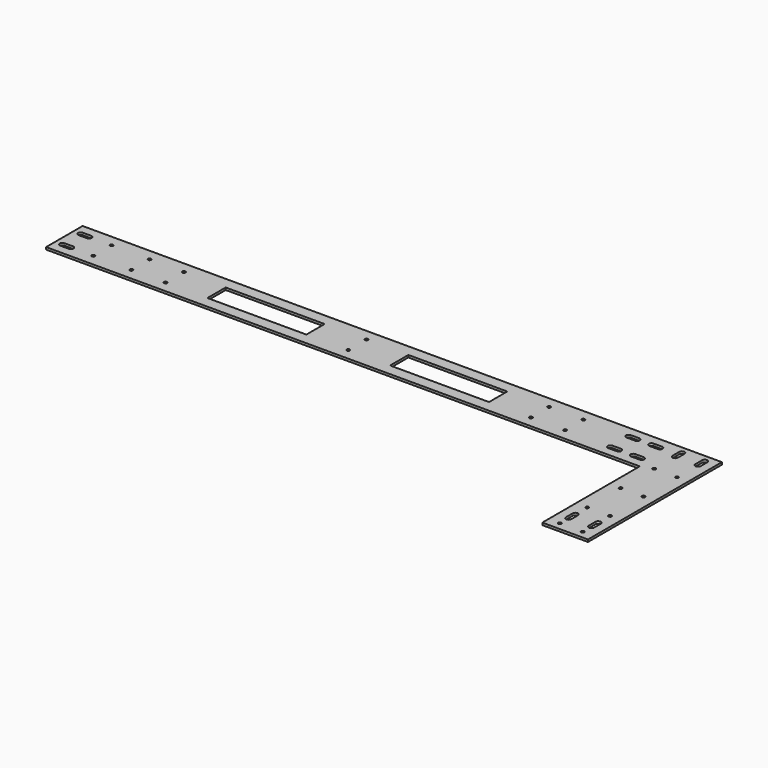
from build123d import *

# Parameters (mm, degrees)
F0_W     = 60
F0_H     = 160
F1_DEPTH = 3
F2_R     = 2.05
F3_DEPTH = 3
F4_W     = 720
F4_H     = 60
F4_R     = 2.05
F5_DEPTH = 3
F6_W     = 130
F6_H     = 30
F7_DEPTH = 25


with BuildPart() as f1:
    # F0 (on Top) → F1 (new body)
    with BuildSketch(Plane.XY):
        with Locations((30, -110)):
            Rectangle(F0_W, F0_H)
        Polygon((0, -30), (60, -30), (60, 30), (-60, 30), (-60, -30), align=None)
    extrude(amount=F1_DEPTH)

    # F2 (on face) → F3 (cut)
    with BuildSketch(Plane.XY.offset(3)):
        with BuildLine():
            Line((-50.5, 11.5), (-39.5, 11.5))
            ThreePointArc((-39.5, 11.5), (-36, 15), (-39.5, 18.5))
            Line((-39.5, 18.5), (-50.5, 18.5))
            ThreePointArc((-50.5, 18.5), (-54, 15), (-50.5, 11.5))
        make_face()
        with BuildLine():
            ThreePointArc((-20.5, 18.5), (-24, 15), (-20.5, 11.5))
            Line((-20.5, 11.5), (-9.5, 11.5))
            ThreePointArc((-9.5, 11.5), (-6, 15), (-9.5, 18.5))
            Line((-9.5, 18.5), (-20.5, 18.5))
        make_face()
        with BuildLine():
            ThreePointArc((-50.5, -11.5), (-54, -15), (-50.5, -18.5))
            Line((-50.5, -18.5), (-39.5, -18.5))
            ThreePointArc((-39.5, -18.5), (-36, -15), (-39.5, -11.5))
            Line((-39.5, -11.5), (-50.5, -11.5))
        make_face()
        with BuildLine():
            ThreePointArc((-20.5, -11.5), (-24, -15), (-20.5, -18.5))
            Line((-20.5, -18.5), (-9.5, -18.5))
            ThreePointArc((-9.5, -18.5), (-6, -15), (-9.5, -11.5))
            Line((-9.5, -11.5), (-20.5, -11.5))
        make_face()
        with BuildLine():
            ThreePointArc((41.5, -165.5), (45, -169), (48.5, -165.5))
            Line((48.5, -165.5), (48.5, -154.5))
            ThreePointArc((48.5, -154.5), (45, -151), (41.5, -154.5))
            Line((41.5, -154.5), (41.5, -165.5))
        make_face()
        with BuildLine():
            ThreePointArc((11.5, -165.5), (15, -169), (18.5, -165.5))
            Line((18.5, -165.5), (18.5, -154.5))
            ThreePointArc((18.5, -154.5), (15, -151), (11.5, -154.5))
            Line((11.5, -154.5), (11.5, -165.5))
        make_face()
        with Locations((15, -180)):
            Circle(F2_R)
        with Locations((45, -180)):
            Circle(F2_R)
        with Locations((15, -135)):
            Circle(F2_R)
        with Locations((45, -135)):
            Circle(F2_R)
        with BuildLine():
            ThreePointArc((41.5, 9.5), (45, 6), (48.5, 9.5))
            Line((48.5, 9.5), (48.5, 20.5))
            ThreePointArc((48.5, 20.5), (45, 24), (41.5, 20.5))
            Line((41.5, 20.5), (41.5, 9.5))
        make_face()
        with BuildLine():
            ThreePointArc((11.5, 9.5), (15, 6), (18.5, 9.5))
            Line((18.5, 9.5), (18.5, 20.5))
            ThreePointArc((18.5, 20.5), (15, 24), (11.5, 20.5))
            Line((11.5, 20.5), (11.5, 9.5))
        make_face()
        with Locations((15, -25)):
            Circle(F2_R)
        with Locations((45, -25)):
            Circle(F2_R)
        with Locations((45, -80)):
            Circle(F2_R)
        with Locations((15, -80)):
            Circle(F2_R)
    extrude(amount=-F3_DEPTH, mode=Mode.SUBTRACT)

    # F4 (on face) → F5 (join)
    with BuildSketch(Plane(origin=(0, 0, 0), x_dir=(1, 0, 0), z_dir=(0, 0, -1))):
        with Locations((-420, 0)):
            Rectangle(F4_W, F4_H)
        with BuildLine():
            ThreePointArc((-759.5, -11.5), (-756, -15), (-759.5, -18.5))
            Line((-759.5, -18.5), (-770.5, -18.5))
            ThreePointArc((-770.5, -18.5), (-774, -15), (-770.5, -11.5))
            Line((-770.5, -11.5), (-759.5, -11.5))
        make_face(mode=Mode.SUBTRACT)
        with Locations((-730, -15)):
            Circle(F4_R, mode=Mode.SUBTRACT)
        with Locations((-680, -15)):
            Circle(F4_R, mode=Mode.SUBTRACT)
        with Locations((-635, -15)):
            Circle(F4_R, mode=Mode.SUBTRACT)
        with Locations((-395, -15)):
            Circle(F4_R, mode=Mode.SUBTRACT)
        with Locations((-155, -15)):
            Circle(F4_R, mode=Mode.SUBTRACT)
        with Locations((-110, -15)):
            Circle(F4_R, mode=Mode.SUBTRACT)
        with BuildLine():
            ThreePointArc((-759.5, 18.5), (-756, 15), (-759.5, 11.5))
            Line((-759.5, 11.5), (-770.5, 11.5))
            ThreePointArc((-770.5, 11.5), (-774, 15), (-770.5, 18.5))
            Line((-770.5, 18.5), (-759.5, 18.5))
        make_face(mode=Mode.SUBTRACT)
        with Locations((-730, 15)):
            Circle(F4_R, mode=Mode.SUBTRACT)
        with Locations((-680, 15)):
            Circle(F4_R, mode=Mode.SUBTRACT)
        with Locations((-635, 15)):
            Circle(F4_R, mode=Mode.SUBTRACT)
        with Locations((-395, 15)):
            Circle(F4_R, mode=Mode.SUBTRACT)
        with Locations((-155, 15)):
            Circle(F4_R, mode=Mode.SUBTRACT)
        with Locations((-110, 15)):
            Circle(F4_R, mode=Mode.SUBTRACT)
    extrude(amount=-F5_DEPTH)

    # F6 (on face) → F7 (cut)
    with BuildSketch(Plane(origin=(0, 0, 0), x_dir=(1, 0, 0), z_dir=(0, 0, -1))):
        with Locations((-515, 0)):
            Rectangle(F6_W, F6_H)
        with Locations((-275, 0)):
            Rectangle(F6_W, F6_H)
    extrude(amount=-F7_DEPTH, mode=Mode.SUBTRACT)


solid = f1.part
